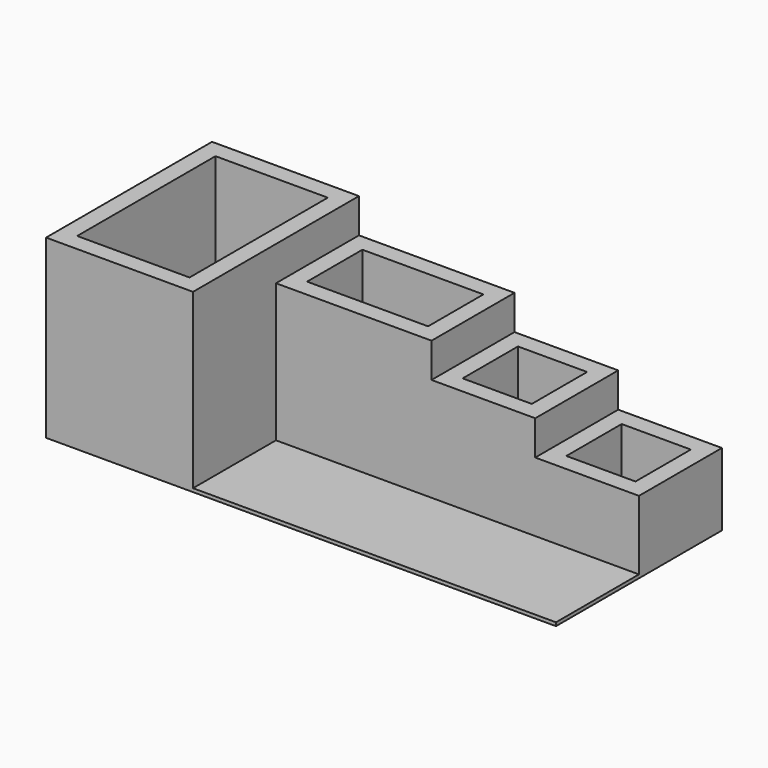
from build123d import *

# Parameters (mm, degrees)
F1_DEPTH = 20
F2_W     = 600
F2_H     = 600
F2_W_2   = 400
F2_H_2   = 400
F3_DEPTH = 400
F4_W     = 600
F4_H     = 600
F4_W_2   = 400
F4_H_2   = 400
F5_DEPTH = 600
F6_W     = 900
F6_H     = 600
F6_W_2   = 700
F6_H_2   = 400
F7_DEPTH = 800
F8_W     = 850
F8_H     = 1200
F8_W_2   = 650
F8_H_2   = 1000
F9_DEPTH = 1000


with BuildPart() as f1:
    # F0 (on Top) → F1 (new body)
    with BuildSketch(Plane.XY):
        Polygon((-2563.636364, 0), (0, 0), (0, 1200), (-2950, 1200), (-2950, 0), align=None)
    extrude(amount=F1_DEPTH)

    # F2 (on face) → F3 (join)
    with BuildSketch(Plane.XY.offset(20)):
        with Locations((-300, 900)):
            Rectangle(F2_W, F2_H)
        with Locations((-300, 900)):
            Rectangle(F2_W_2, F2_H_2, mode=Mode.SUBTRACT)
    extrude(amount=F3_DEPTH)

    # F4 (on face) → F5 (join)
    with BuildSketch(Plane.XY.offset(20)):
        with Locations((-900, 900)):
            Rectangle(F4_W, F4_H)
        with Locations((-900, 900)):
            Rectangle(F4_W_2, F4_H_2, mode=Mode.SUBTRACT)
    extrude(amount=F5_DEPTH)

    # F6 (on face) → F7 (join)
    with BuildSketch(Plane.XY.offset(20)):
        with Locations((-1650, 900)):
            Rectangle(F6_W, F6_H)
        with Locations((-1650, 900)):
            Rectangle(F6_W_2, F6_H_2, mode=Mode.SUBTRACT)
    extrude(amount=F7_DEPTH)

    # F8 (on face) → F9 (join)
    with BuildSketch(Plane.XY.offset(20)):
        with Locations((-2525, 600)):
            Rectangle(F8_W, F8_H)
        with Locations((-2525, 600)):
            Rectangle(F8_W_2, F8_H_2, mode=Mode.SUBTRACT)
    extrude(amount=F9_DEPTH)


solid = f1.part
